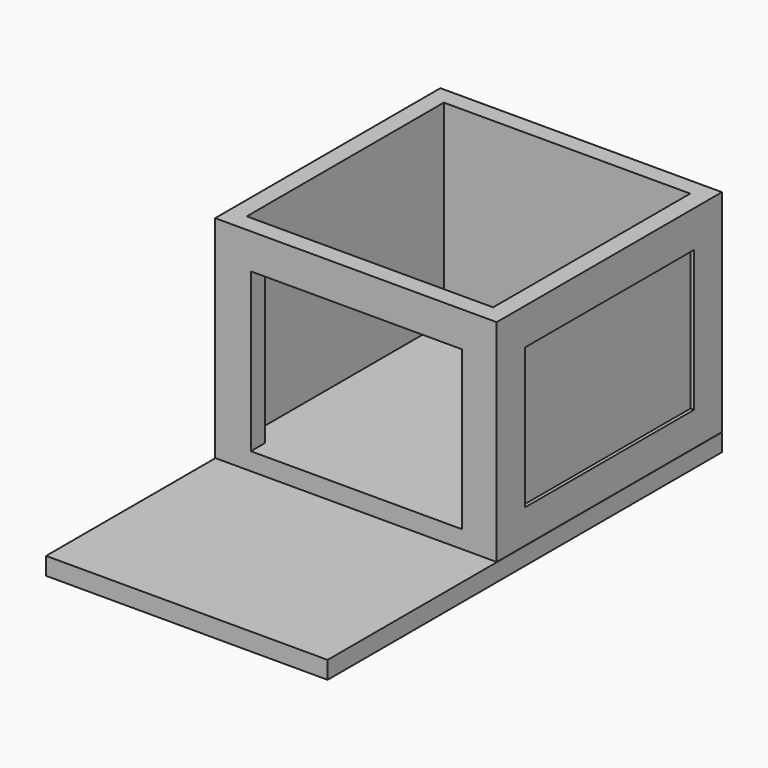
from build123d import *

# Parameters (mm, degrees)
F0_W      = 101.6
F0_H      = 101.599996
F1_DEPTH  = 76.2
F2_W      = 88.9
F2_H      = 88.9
F3_DEPTH  = 69.85
F4_W      = 76.2
F4_H      = 57.15
F5_DEPTH  = 12.7
F6_W      = 76.2
F6_H      = 50.8
F7_DEPTH  = 1.27
F8_W      = 76.2
F8_H      = 50.8
F9_DEPTH  = 1.27
F10_W     = 76.2
F10_H     = 50.8
F11_DEPTH = 1.27
F12_W     = 101.6
F12_H     = 177.8
F13_DEPTH = 6.35


with BuildPart() as f1:
    # F0 (on Top) → F1 (new body)
    with BuildSketch(Plane.XY):
        with Locations((4.893579, -0.244679)):
            Rectangle(F0_W, F0_H)
    extrude(amount=F1_DEPTH)

    # F2 (on face) → F3 (cut)
    with BuildSketch(Plane.XY.offset(76.2)):
        with Locations((4.812017, -0.163119)):
            Rectangle(F2_W, F2_H)
    extrude(amount=-F3_DEPTH, mode=Mode.SUBTRACT)

    # F4 (on face) → F5 (cut)
    with BuildSketch(Plane.XZ.offset(51.044677)):
        with Locations((5.06835, 34.925)):
            Rectangle(F4_W, F4_H)
    extrude(amount=-F5_DEPTH, mode=Mode.SUBTRACT)

    # F6 (on face) → F7 (cut)
    with BuildSketch(Plane(origin=(-45.906421, 0, 0), x_dir=(0, -1, 0), z_dir=(-1, 0, 0))):
        with Locations((0.071097, 38.046492)):
            Rectangle(F6_W, F6_H)
    extrude(amount=-F7_DEPTH, mode=Mode.SUBTRACT)

    # F8 (on face) → F9 (cut)
    with BuildSketch(Plane(origin=(0, 50.555319, 0), x_dir=(-1, 0, 0), z_dir=(0, 1, 0))):
        with Locations((-5.701129, 38.046894)):
            Rectangle(F8_W, F8_H)
    extrude(amount=-F9_DEPTH, mode=Mode.SUBTRACT)

    # F10 (on face) → F11 (cut)
    with BuildSketch(Plane.YZ.offset(55.693579)):
        with Locations((-0.148215, 37.570929)):
            Rectangle(F10_W, F10_H)
    extrude(amount=-F11_DEPTH, mode=Mode.SUBTRACT)

    # F12 (on Top) → F13 (join)
    with BuildSketch(Plane.XY):
        with Locations((4.99807, -38.540878)):
            Rectangle(F12_W, F12_H)
    extrude(amount=-F13_DEPTH)


solid = f1.part
